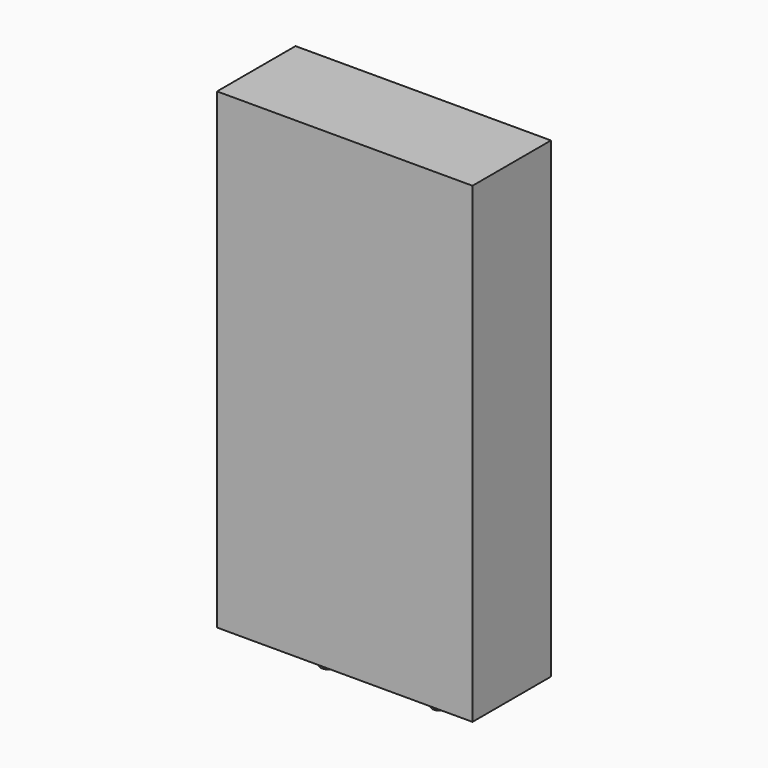
from build123d import *

# Parameters (mm, degrees)
F0_W     = 219.075
F0_H     = 404.8125
F1_DEPTH = 42.06875
F2_W     = 6.35
F2_H     = 25.4


with BuildPart() as f1:
    # F0 (on Front) → F1 (new body, symmetric)
    with BuildSketch(Plane.XZ):
        with Locations((109.5375, 202.40625)):
            Rectangle(F0_W, F0_H)
    extrude(amount=F1_DEPTH, both=True)

    # F2 (on Front) → F3 (revolve)
    with BuildSketch(Plane.XZ):
        with Locations((58.547, -12.7)):
            Rectangle(F2_W, F2_H)
    revolve(axis=Axis((61.722, 0, -40.7141068673), (0, 0, -1)))

    # F2 (on Front) → F4 (revolve)
    with BuildSketch(Plane.XZ):
        with Locations((160.528, -12.7)):
            Rectangle(F2_W, F2_H)
    revolve(axis=Axis((157.353, 0, -46.729570285), (0, 0, -1)))


solid = f1.part
